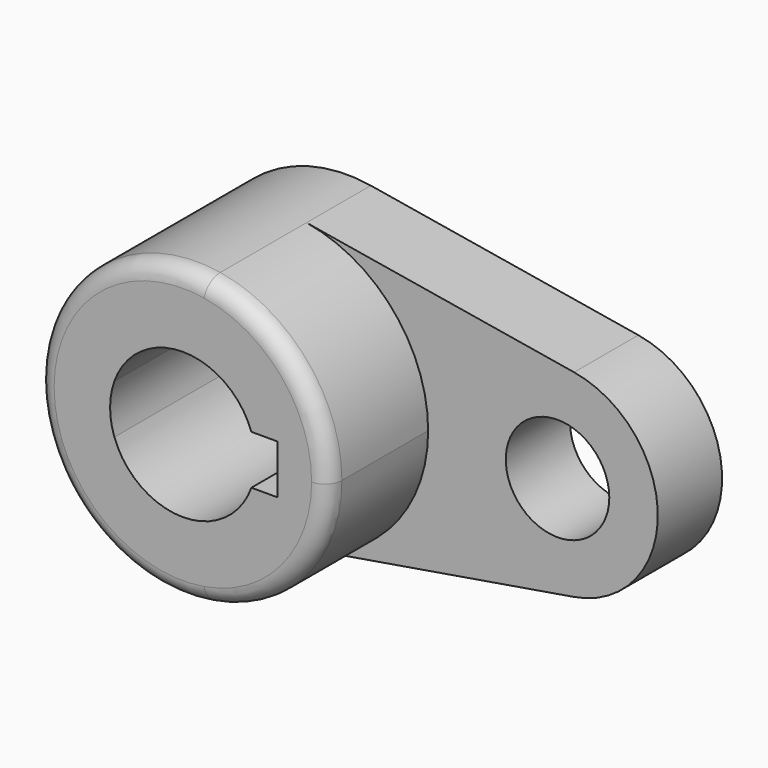
from build123d import *

# Parameters (mm, degrees)
F1_DEPTH = 15.7734
F2_R     = 10.16
F3_DEPTH = 15.7744
F4_DEPTH = 40.2336
F6_DEPTH = 40.2346
F7_R     = 3.302


with BuildPart() as f1:
    # F0 (on Front) → F1 (new body)
    with BuildSketch(Plane.XZ):
        with BuildLine():
            ThreePointArc((4.7064705882, 28.1847433836), (21.8061691049, 18.4667705344), (28.575, 0))
            ThreePointArc((28.575, 0), (21.8061691049, -18.4667705344), (4.7064705882, -28.1847433836))
            Line((4.7064705882, -28.1847433836), (57.2172352941, -19.4161565532))
            ThreePointArc((57.2172352941, -19.4161565532), (73.66, 0), (57.2172352941, 19.4161565532))
            Line((57.2172352941, 19.4161565532), (4.7064705882, 28.1847433836))
        make_face()
    extrude(amount=F1_DEPTH)

    # F2 (on face) → F3 (cut, through all)
    with BuildSketch(Plane.XZ.offset(15.7734)):
        with Locations((53.975, 0)):
            Circle(F2_R)
    extrude(amount=-F3_DEPTH, mode=Mode.SUBTRACT)

    # F0 (on Front) → F4 (join)
    with BuildSketch(Plane.XZ):
        with BuildLine():
            ThreePointArc((4.7064705882, -28.1847433836), (21.8061691049, -18.4667705344), (28.575, 0))
            ThreePointArc((28.575, 0), (21.8061691049, 18.4667705344), (4.7064705882, 28.1847433836))
            ThreePointArc((4.7064705882, 28.1847433836), (-28.575, 0), (4.7064705882, -28.1847433836))
        make_face()
    extrude(amount=F4_DEPTH)

    # F5 (on face) → F6 (cut, through all)
    with BuildSketch(Plane.XZ.offset(40.2336)):
        with BuildLine():
            ThreePointArc((13.4477648793, -4.826), (14.0760007986, -2.4492565746), (14.2875, 0))
            ThreePointArc((14.2875, 0), (14.0760007986, 2.4492565746), (13.4477648793, 4.826))
            Line((13.4477648793, 4.826), (-13.4477648793, 4.826))
            ThreePointArc((-13.4477648793, 4.826), (-14.2875, 0), (-13.4477648793, -4.826))
            Line((-13.4477648793, -4.826), (13.4477648793, -4.826))
        make_face()
        with BuildLine():
            Line((-13.4477648793, 4.826), (13.4477648793, 4.826))
            ThreePointArc((13.4477648793, 4.826), (0, 14.2875), (-13.4477648793, 4.826))
        make_face()
        with BuildLine():
            ThreePointArc((-13.4477648793, -4.826), (0, -14.2875), (13.4477648793, -4.826))
            Line((13.4477648793, -4.826), (-13.4477648793, -4.826))
        make_face()
        with BuildLine():
            ThreePointArc((13.4477648793, 4.826), (14.0760007986, 2.4492565746), (14.2875, 0))
            ThreePointArc((14.2875, 0), (14.0760007986, -2.4492565746), (13.4477648793, -4.826))
            Line((13.4477648793, -4.826), (18.5293, -4.826))
            Line((18.5293, -4.826), (18.5293, 4.826))
            Line((18.5293, 4.826), (13.4477648793, 4.826))
        make_face()
    extrude(amount=-F6_DEPTH, mode=Mode.SUBTRACT)

    # F7
    f7_edges = [f1.edges().sort_by_distance(p)[0] for p in [
        (-4.706471, -40.2336, 28.184743),
    ]]
    fillet(f7_edges, radius=F7_R)


solid = f1.part
